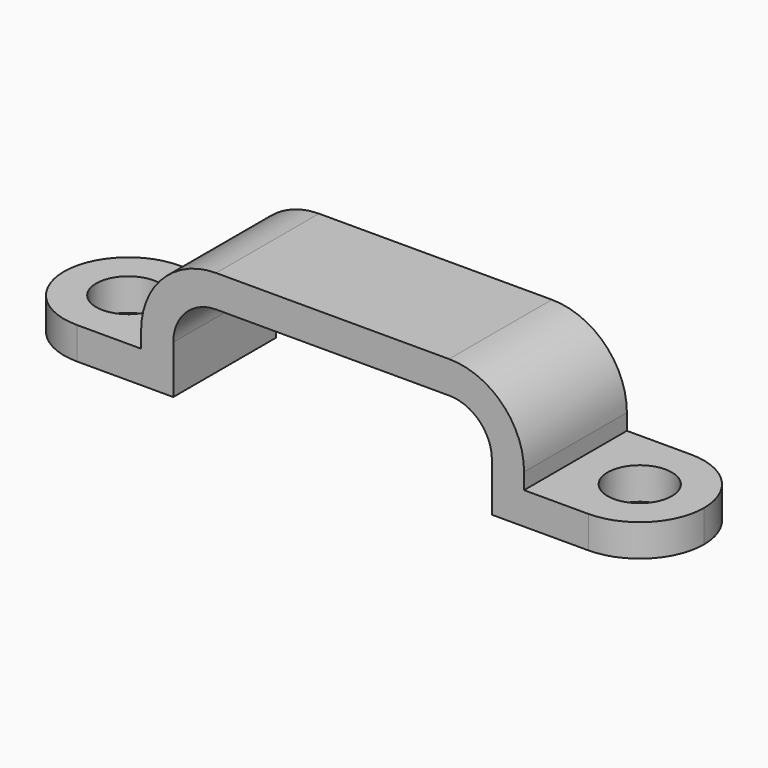
from build123d import *

# Parameters (mm, degrees)
F1_DEPTH = 6
F2_R     = 1.5
F3_DEPTH = 1.5


with BuildPart() as f1:
    # F0 (on Front) → F1 (new body)
    with BuildSketch(Plane.XZ):
        with BuildLine():
            Line((-1.5, 0), (0, 0))
            Line((0, 0), (0, 2.25))
            ThreePointArc((0, 2.25), (0.585786, 3.664214), (2, 4.25))
            Line((2, 4.25), (12.875, 4.25))
            ThreePointArc((12.875, 4.25), (14.289214, 3.664214), (14.875, 2.25))
            Line((14.875, 2.25), (14.875, 0))
            Line((14.875, 0), (16.375, 0))
            Line((16.375, 0), (16.375, 2.25))
            ThreePointArc((16.375, 2.25), (15.349874, 4.724874), (12.875, 5.75))
            Line((12.875, 5.75), (2, 5.75))
            ThreePointArc((2, 5.75), (-0.474874, 4.724874), (-1.5, 2.25))
            Line((-1.5, 2.25), (-1.5, 0))
        make_face()
    extrude(amount=F1_DEPTH)

    # F2 (on Top) → F3 (join)
    with BuildSketch(Plane.XY):
        with BuildLine():
            Line((-1.5, -6), (-1.5, 0))
            Line((-1.5, 0), (-4.5, 0))
            ThreePointArc((-4.5, 0), (-6.62132, -0.87868), (-7.5, -3))
            ThreePointArc((-7.5, -3), (-6.62132, -5.12132), (-4.5, -6))
            Line((-4.5, -6), (-1.5, -6))
        make_face()
        with Locations((-4.5, -3)):
            Circle(F2_R, mode=Mode.SUBTRACT)
        with BuildLine():
            Line((16.375, 0), (16.375, -6))
            Line((16.375, -6), (19.375, -6))
            ThreePointArc((19.375, -6), (21.49632, -5.12132), (22.375, -3))
            ThreePointArc((22.375, -3), (21.49632, -0.87868), (19.375, 0))
            Line((19.375, 0), (16.375, 0))
        make_face()
        with Locations((19.375, -3)):
            Circle(F2_R, mode=Mode.SUBTRACT)
    extrude(amount=F3_DEPTH)


solid = f1.part
